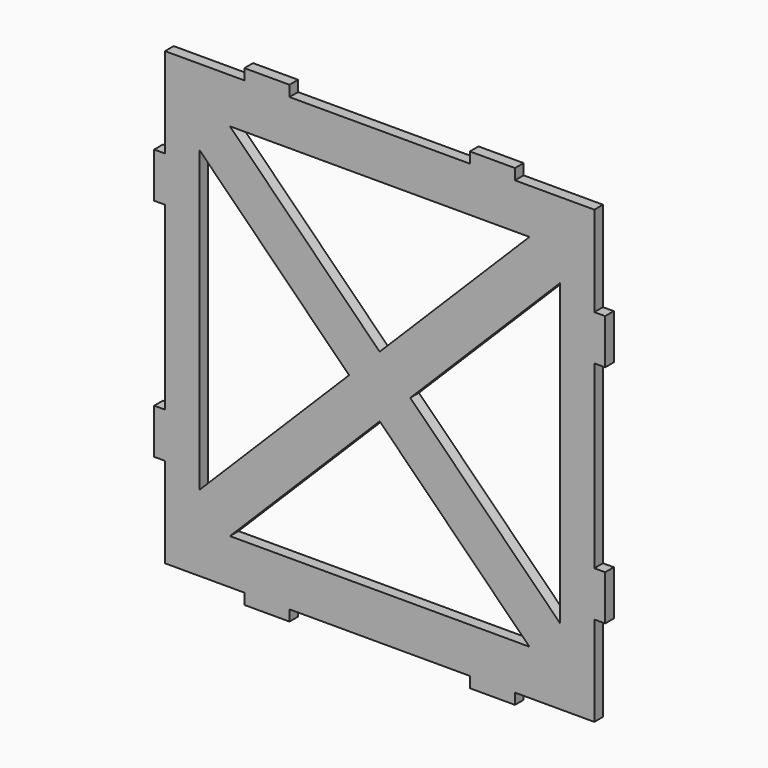
from build123d import *

# Parameters (mm, degrees)
F0_W     = 1.524
F0_H     = 6.35
F0_W_2   = 6.35
F0_H_2   = 1.524
F1_DEPTH = 1.524


with BuildPart() as f1:
    # F0 (on Front) → F1 (new body)
    with BuildSketch(Plane.XZ):
        Polygon((30.226, 19.05), (30.226, 31.75), (19.05, 31.75), (12.7, 31.75), (-12.7, 31.75), (-19.05, 31.75), (-30.226, 31.75), (-30.226, 19.05), (-30.226, 12.7), (-30.226, -12.7), (-30.226, -19.05), (-30.226, -31.75), (-19.05, -31.75), (-12.7, -31.75), (12.7, -31.75), (19.05, -31.75), (30.226, -31.75), (30.226, -19.05), (30.226, -12.7), (30.226, 12.7), align=None)
        Polygon((21.0894770619, 25.4), (25.4, 25.4), (25.4, 21.0894770619), (25.4, -21.0894770619), (25.4, -25.4), (21.0894770619, -25.4), (-21.0894770619, -25.4), (-25.4, -25.4), (-25.4, -21.0894770619), (-25.4, 21.0894770619), (-25.4, 25.4), (-21.0894770619, 25.4), align=None, mode=Mode.SUBTRACT)
        with Locations((-30.988, 15.875)):
            Rectangle(F0_W, F0_H)
        with Locations((-30.988, -15.875)):
            Rectangle(F0_W, F0_H)
        with Locations((30.988, -15.875)):
            Rectangle(F0_W, F0_H)
        with Locations((30.988, 15.875)):
            Rectangle(F0_W, F0_H)
        with Locations((-15.875, -32.512)):
            Rectangle(F0_W_2, F0_H_2)
        with Locations((15.875, -32.512)):
            Rectangle(F0_W_2, F0_H_2)
        Polygon((0, 4.3105229381), (-21.0894770619, 25.4), (-25.4, 25.4), (-25.4, 21.0894770619), (-4.3105229381, 0), align=None)
        Polygon((25.4, 21.0894770619), (25.4, 25.4), (21.0894770619, 25.4), (0, 4.3105229381), (4.3105229381, 0), align=None)
        Polygon((25.4, -25.4), (25.4, -21.0894770619), (4.3105229381, 0), (0, -4.3105229381), (21.0894770619, -25.4), align=None)
        Polygon((0, -4.3105229381), (-4.3105229381, 0), (-25.4, -21.0894770619), (-25.4, -25.4), (-21.0894770619, -25.4), align=None)
        Polygon((4.3105229381, 0), (0, 4.3105229381), (-4.3105229381, 0), (0, -4.3105229381), align=None)
        with Locations((-15.875, 32.512)):
            Rectangle(F0_W_2, F0_H_2)
        with Locations((15.875, 32.512)):
            Rectangle(F0_W_2, F0_H_2)
    extrude(amount=F1_DEPTH)


solid = f1.part
